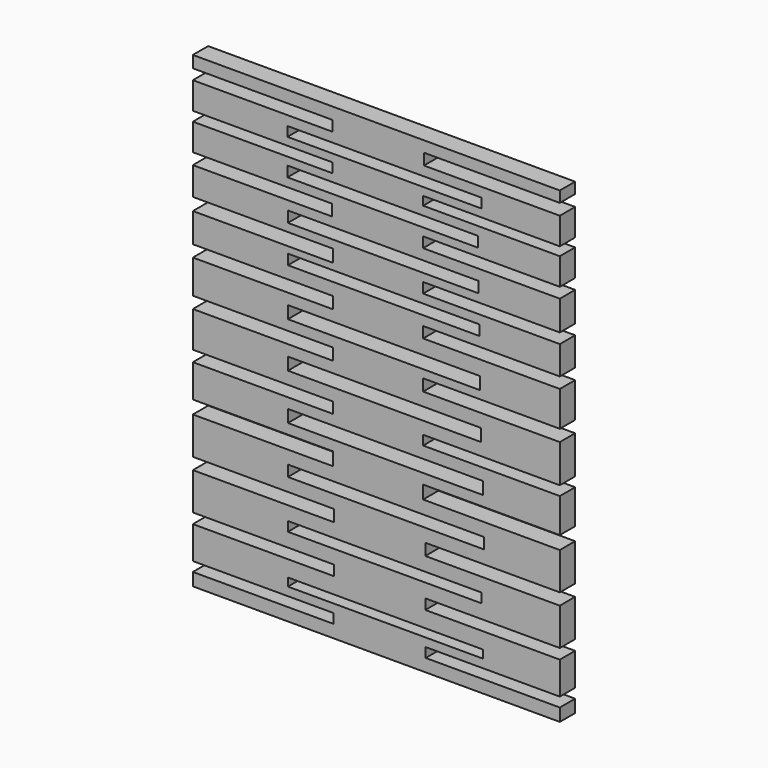
from build123d import *

# Parameters (mm, degrees)
F0_W     = 50.984893
F0_H     = 2.100501
F0_W_2   = 50.602986
F0_H_2   = 2.482414
F0_W_3   = 51.175848
F0_H_3   = 2.86432
F0_H_4   = 3.246229
F0_W_4   = 50.412029
F0_W_5   = 50.221075
F0_W_6   = 50.030118
F0_H_5   = 2.673368
F0_W_7   = 49.839167
F0_H_6   = 2.864324
F0_W_8   = 49.731534
F0_H_7   = 2.725012
F0_W_9   = 50.639872
F0_H_8   = 2.49793
F1_DEPTH = 5


with BuildPart() as f1:
    # F0 (on Front) → F1 (new body)
    with BuildSketch(Plane.XZ):
        Polygon((-48.025098, -52.537646), (-48.025098, -55.854235), (47.834139, -55.854235), (47.834139, -52.537646), (12.798216, -52.537646), (12.798216, -50.039716), (47.834139, -50.039716), (47.834139, -41.532639), (12.698486, -41.532639), (12.698486, -38.859274), (47.834139, -38.859274), (47.834139, -29.120585), (12.698486, -29.120585), (12.698486, -26.06531), (47.834139, -26.06531), (47.834139, -16.326623), (12.125621, -16.326623), (12.125621, -12.889439), (47.834139, -12.889439), (47.834139, -3.91457), (12.125621, -3.91457), (12.125621, -1.43216), (47.834139, -1.43216), (47.834139, 8.497482), (12.125621, 8.497482), (12.125621, 11.552757), (47.834139, 11.552757), (47.834139, 20.71858), (12.125621, 20.71858), (12.125621, 23.5829), (47.834139, 23.5829), (47.834139, 31.030132), (12.125621, 31.030132), (12.125621, 33.703495), (47.834139, 33.703495), (47.834139, 41.475393), (12.116962, 41.475393), (12.116962, 44.200405), (47.834139, 44.200405), (47.834139, 51.240031), (12.125621, 51.240031), (12.125621, 53.510878), (47.834139, 53.510878), (47.834139, 60.5505), (12.344047, 60.5505), (12.344047, 63.502602), (47.834139, 63.502602), (47.834139, 66.356741), (-48.025098, 66.356741), (-48.025098, 63.275516), (-11.49984, 63.275516), (-11.49984, 60.5505), (-48.025098, 60.5505), (-48.025098, 53.510878), (-11.49984, 53.510878), (-11.49984, 51.012948), (-48.025098, 51.012948), (-48.025098, 43.973323), (-11.726924, 43.973323), (-11.726924, 41.021224), (-48.025098, 41.021224), (-48.025098, 33.703495), (-11.361802, 33.703495), (-11.361802, 30.457268), (-48.025098, 30.457268), (-48.025098, 22.819081), (-11.361802, 22.819081), (-11.361802, 19.763807), (-48.025098, 19.763807), (-48.025098, 10.979893), (-11.361802, 10.979893), (-11.361802, 7.924618), (-48.025098, 7.924618), (-48.025098, -1.43216), (-11.361802, -1.43216), (-11.361802, -4.29648), (-48.025098, -4.29648), (-48.025098, -12.889439), (-11.361802, -12.889439), (-11.361802, -16.326623), (-48.025098, -16.326623), (-48.025098, -26.06531), (-11.170847, -26.06531), (-11.170847, -29.120585), (-48.025098, -29.120585), (-48.025098, -38.859274), (-11.170847, -38.859274), (-11.170847, -41.532639), (-48.025098, -41.532639), (-48.025098, -50.039716), (-11.272755, -50.039716), (-11.272755, -52.537646), align=None)
        with Locations((2.291455, -46.783892)):
            Rectangle(F0_W, F0_H, mode=Mode.SUBTRACT)
        with Locations((2.100502, -33.989929)):
            Rectangle(F0_W_2, F0_H_2, mode=Mode.SUBTRACT)
        with Locations((2.386933, -21.195967)):
            Rectangle(F0_W_3, F0_H_3, mode=Mode.SUBTRACT)
        with Locations((2.291455, -8.592959)):
            Rectangle(F0_W, F0_H_4, mode=Mode.SUBTRACT)
        with Locations((2.005024, 3.437183)):
            Rectangle(F0_W_4, F0_H_4, mode=Mode.SUBTRACT)
        with Locations((1.909546, 15.276373)):
            Rectangle(F0_W_5, F0_H_4, mode=Mode.SUBTRACT)
        with Locations((1.814068, 27.401994)):
            Rectangle(F0_W_6, F0_H_5, mode=Mode.SUBTRACT)
        with Locations((1.718592, 37.236158)):
            Rectangle(F0_W_7, F0_H_6, mode=Mode.SUBTRACT)
        with Locations((1.557527, 47.606677)):
            Rectangle(F0_W_8, F0_H_7, mode=Mode.SUBTRACT)
        with Locations((2.011696, 56.803601)):
            Rectangle(F0_W_9, F0_H_8, mode=Mode.SUBTRACT)
    extrude(amount=F1_DEPTH)


solid = f1.part
